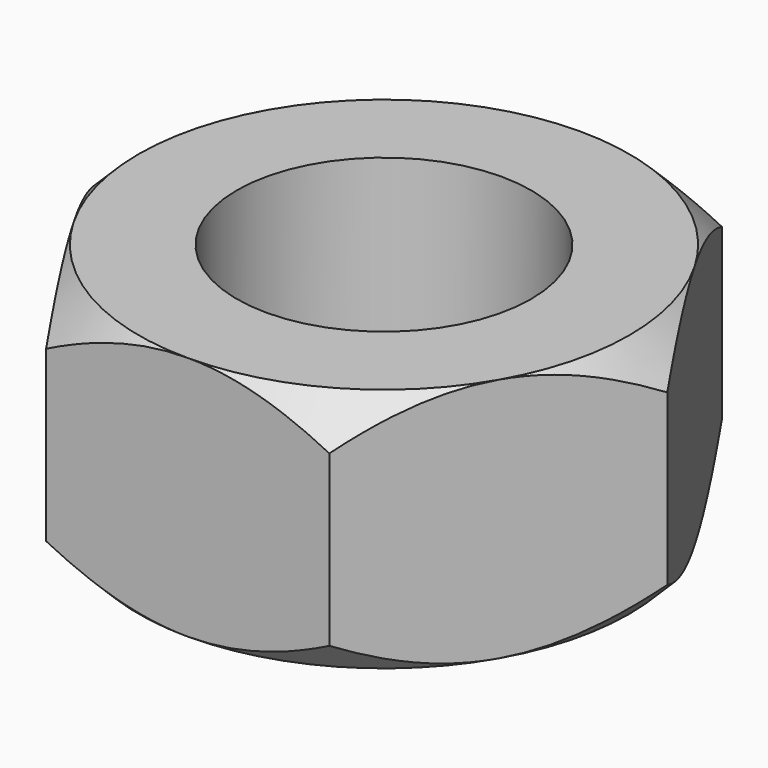
from build123d import *

# Parameters (mm, degrees)
F0_R     = 3
F1_DEPTH = 2.5


with BuildPart() as f1:
    # F0 (on Top) → F1 (new body, symmetric)
    with BuildSketch(Plane.XY):
        Polygon((2.886751, 5), (-2.886751, 5), (-5.773503, 0), (-2.886751, -5), (2.886751, -5), (5.773503, 0), align=None)
        Circle(F0_R, mode=Mode.SUBTRACT)
    extrude(amount=F1_DEPTH, both=True)

    # F2 (on Front) → F3 (revolve, cut)
    with BuildSketch(Plane.XZ):
        Polygon((-5.773503, 2.5), (-5.773503, 1.726497), (-5, 2.5), align=None)
        Polygon((-5, -2.5), (-5.773503, -1.726497), (-5.773503, -2.5), align=None)
    revolve(axis=Axis((0, 0, -0.060454), (0, 0, -1)), mode=Mode.SUBTRACT)


solid = f1.part
